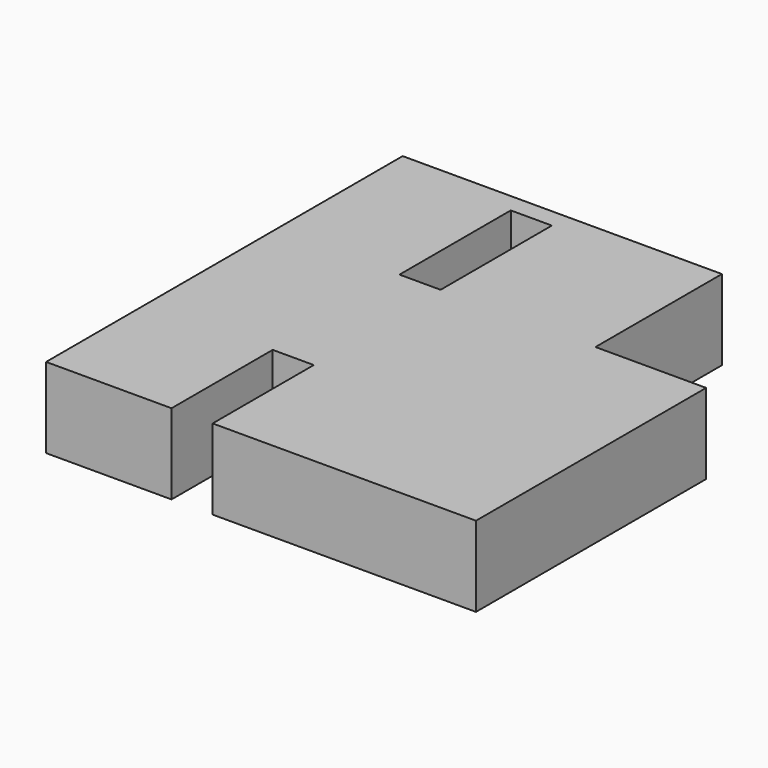
from build123d import *

# Parameters (mm, degrees)
F0_W     = 13
F0_H     = 44
F1_DEPTH = 25.4


with BuildPart() as f1:
    # F0 (on Top) → F1 (new body)
    with BuildSketch(Plane.XY):
        Polygon((33, 20.5), (33, 70.5), (-68, 70.5), (-68, -70.5), (-28.3125, -70.5), (-28.3125, -30.5), (-15.3125, -30.5), (-15.3125, -70.5), (68, -70.5), (68, 20.5), align=None)
        with Locations((-22.5, 42.5)):
            Rectangle(F0_W, F0_H, mode=Mode.SUBTRACT)
    extrude(amount=F1_DEPTH)


solid = f1.part
